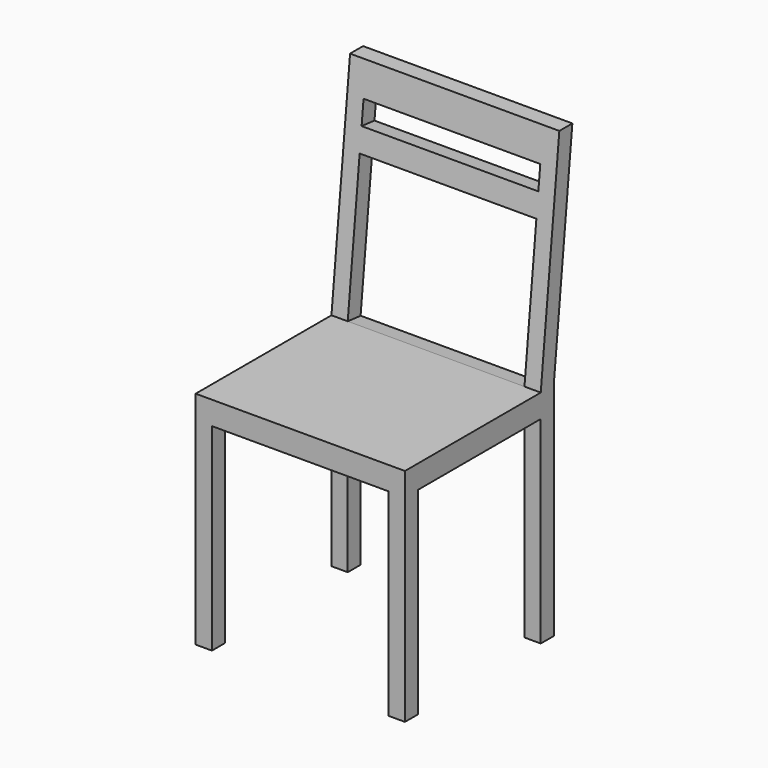
from build123d import *

# Parameters (mm, degrees)
F0_W     = 450
F0_H     = 450
F1_DEPTH = 950
F2_W     = 50
F2_H     = 50
F2_H_2   = 425
F2_W_2   = 330
F3_DEPTH = 450.001
F4_W     = 380
F4_H     = 425
F5_DEPTH = 450.001
F6_W     = 380
F6_H     = 50
F6_H_2   = 306.2882968217
F7_DEPTH = 134.2592361444


with BuildPart() as f1:
    # F0 (on Top) → F1 (new body)
    with BuildSketch(Plane.XY):
        Rectangle(F0_W, F0_H)
    extrude(amount=F1_DEPTH)

    # F2 (on face) → F3 (cut, through all)
    with BuildSketch(Plane.YZ.offset(225)):
        Polygon((-225, 475), (140, 475), (190, 950), (-225, 950), align=None)
        Polygon((175, 475), (225, 475), (225, 950), align=None)
        with Locations((200, 450)):
            Rectangle(F2_W, F2_H)
        with Locations((200, 212.5)):
            Rectangle(F2_W, F2_H_2)
        with Locations((-25, 212.5)):
            Rectangle(F2_W_2, F2_H_2)
    extrude(amount=-F3_DEPTH, mode=Mode.SUBTRACT)

    # F4 (on face) → F5 (cut, through all)
    with BuildSketch(Plane.XZ.offset(225)):
        with Locations((0, 212.5)):
            Rectangle(F4_W, F4_H)
    extrude(amount=-F5_DEPTH, mode=Mode.SUBTRACT)

    # F6 (on face) → F7 (cut, through all)
    with BuildSketch(Plane(origin=(0, 89.0136986301, -9.3698630137), x_dir=(1, 0, 0), z_dir=(0, -0.9945054529, 0.1046847845))):
        with Locations((0, 868.3342567919)):
            Rectangle(F6_W, F6_H)
        with Locations((0, 640.190108381)):
            Rectangle(F6_W, F6_H_2)
    extrude(amount=-F7_DEPTH, mode=Mode.SUBTRACT)


solid = f1.part
